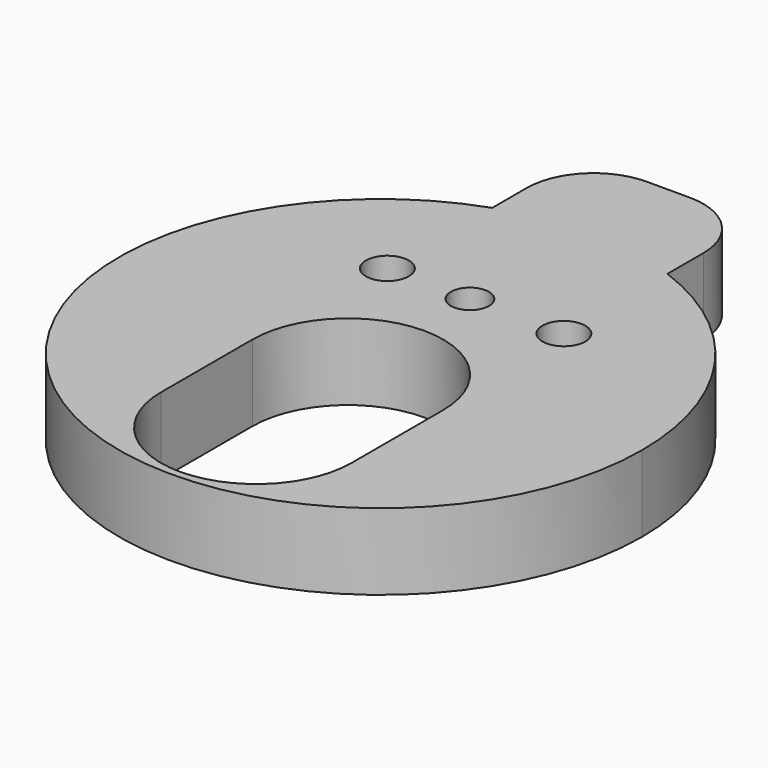
from build123d import *

# Parameters (mm, degrees)
F1_DEPTH = 10.16
F2_R     = 2.8575
F2_R_2   = 2.54
F3_DEPTH = 25.4
F4_R     = 8.89


with BuildPart() as f1:
    # F0 (on Top) → F1 (new body)
    with BuildSketch(Plane.XY):
        with BuildLine():
            ThreePointArc((-21.838268, 2.290616), (-30.572093, -58.937184), (24.389732, -30.576631))
            ThreePointArc((24.389732, -30.576631), (18.146405, -10.688658), (1.656732, 2.062863))
            ThreePointArc((1.656732, 2.062863), (-10.070964, 4.219734), (-21.838268, 2.290616))
        make_face()
        with BuildLine():
            ThreePointArc((-21.838268, 2.290616), (-10.070964, 4.219734), (1.656732, 2.062863))
            Line((1.656732, 2.062863), (1.656732, 16.921369))
            Line((1.656732, 16.921369), (-21.838268, 16.921369))
            Line((-21.838268, 16.921369), (-21.838268, 2.290616))
        make_face()
    extrude(amount=F1_DEPTH)

    # F2 (on face) → F3 (cut)
    with BuildSketch(Plane.XY.offset(10.16)):
        with Locations((-21.838268, -15.159007)):
            Circle(F2_R)
        with Locations((-10.852768, -15.159007)):
            Circle(F2_R_2)
        with Locations((1.656732, -15.158281)):
            Circle(F2_R)
        with BuildLine():
            Line((2.609232, -51.658631), (2.609232, -36.418631))
            ThreePointArc((2.609232, -36.418631), (-10.090768, -23.718631), (-22.790768, -36.418631))
            Line((-22.790768, -36.418631), (-22.790768, -51.658631))
            ThreePointArc((-22.790768, -51.658631), (-10.090768, -64.358631), (2.609232, -51.658631))
        make_face()
    extrude(amount=-F3_DEPTH, mode=Mode.SUBTRACT)

    # F4
    f4_edges = [f1.edges().sort_by_distance(p)[0] for p in [
        (-21.838268, 16.921369, 5.08),
        (1.656732, 16.921369, 5.08),
    ]]
    fillet(f4_edges, radius=F4_R)


solid = f1.part
